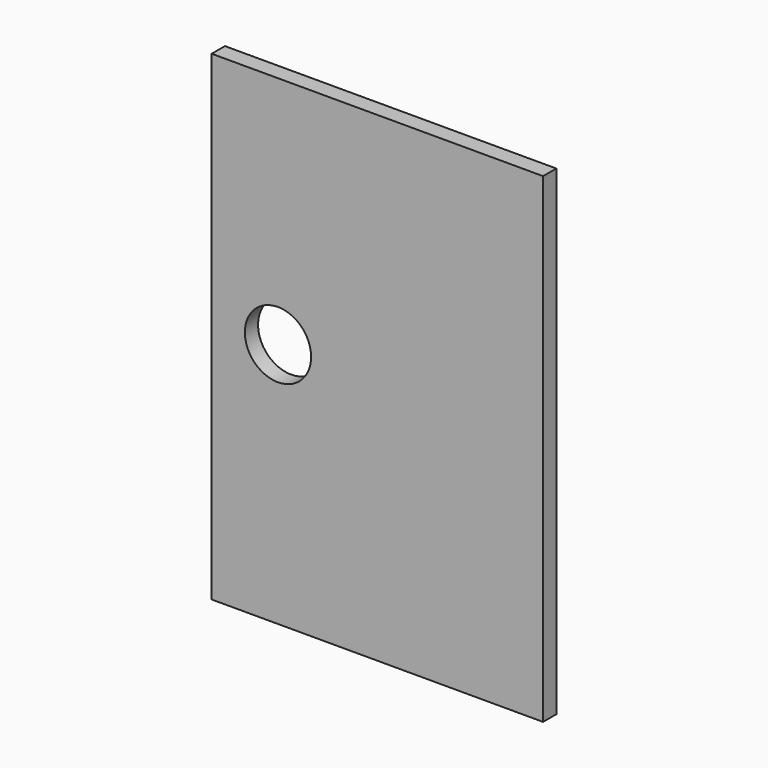
from build123d import *

# Parameters (mm, degrees)
F0_W     = 5.08
F0_H     = 7.366
F1_DEPTH = 0.254


with BuildPart() as f1:
    # F0 (on Front) → F1 (new body)
    with BuildSketch(Plane.XZ):
        with Locations((2.54, 3.683)):
            Rectangle(F0_W, F0_H)
        with BuildLine():
            ThreePointArc((0.508, 3.770682), (1.016, 4.278682), (1.524, 3.770682))
            ThreePointArc((1.524, 3.770682), (1.016, 3.262682), (0.508, 3.770682))
        make_face(mode=Mode.SUBTRACT)
    extrude(amount=F1_DEPTH)


solid = f1.part
